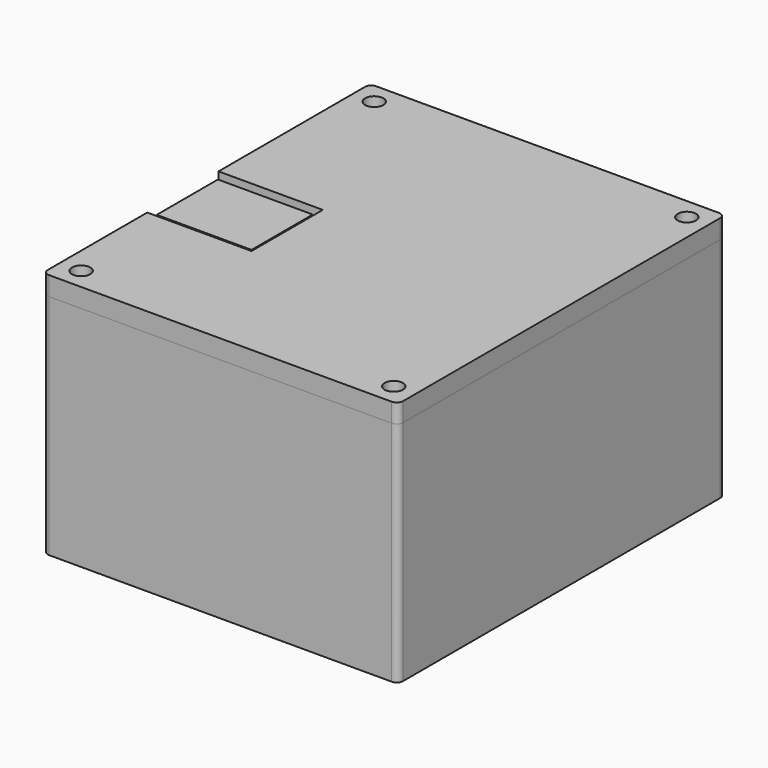
from build123d import *

# Parameters (mm, degrees)
SKETCH001_W     = 41.91
SKETCH001_H     = 35.406
SKETCH001_R     = 1.6
PAD_DEPTH       = 1.6
SKETCH002_W     = 25.5
SKETCH002_H     = 18
PAD001_DEPTH    = 0.8
SKETCH003_W     = 17.6
SKETCH003_H     = 15.8
PAD002_DEPTH    = 2.3
SKETCH004_W     = 10
SKETCH004_H     = 5.8
PAD003_DEPTH    = 3
SKETCH005_W     = 7.5
SKETCH005_H     = 1
PAD004_DEPTH    = 8
SKETCH006_W     = 7.5
SKETCH006_H     = 9.16
PAD005_DEPTH    = 3.16
SKETCH007_W     = 6.02
SKETCH007_H     = 7.84
PAD006_DEPTH    = 3
SKETCH008_W     = 1
SKETCH008_H     = 5
PAD007_DEPTH    = 8
SKETCH012_W     = 0.6
SKETCH012_H     = 0.6
PAD011_DEPTH    = 7
SKETCH009_W     = 40
SKETCH009_H     = 40
PAD008_DEPTH    = 8
SKETCH010_W     = 15
SKETCH010_H     = 12.1
PAD009_DEPTH    = 4.5
SKETCH011_W     = 0.44
SKETCH011_H     = 0.28
PAD010_DEPTH    = 7.7
SKETCH013_W     = 56.2
SKETCH013_H     = 64.703
PAD012_DEPTH    = 1
SKETCH014_W     = 56.2
SKETCH014_H     = 64.703
SKETCH014_R     = 1.45
PAD013_DEPTH    = 35
SKETCH015_W     = 9.56
SKETCH015_H     = 3.56
POCKET_DEPTH    = 2
SKETCH016_R     = 1.8
SKETCH016_R_2   = 1.4
PAD014_DEPTH    = 16
SKETCH017_W     = 15.3
SKETCH017_H     = 8.2
POCKET001_DEPTH = 2
FILLET003_R     = 1
SKETCH029_R     = 1.45
PAD025_DEPTH    = 1
FILLET_R        = 1
FILLET004_R     = 1
FILLET005_R     = 1
FILLET006_R     = 1
POCKET003_DEPTH = 5
PAD026_DEPTH    = 1
SKETCH031_R     = 1.45
PAD027_DEPTH    = 1
PAD028_DEPTH    = 4.7
SKETCH032_R     = 1.45
PAD029_DEPTH    = 1
SKETCH034_W     = 17.1
SKETCH034_H     = 15.3
PAD030_DEPTH    = 0.6
SKETCH035_W     = 9.06
SKETCH035_H     = 1.28
POCKET002_DEPTH = 2
FILLET007_R     = 1
FILLET008_R     = 1


with BuildPart() as pcb:
    # Sketch001 → Pad (new body)
    with BuildSketch(Plane.XY):
        Rectangle(SKETCH001_W, SKETCH001_H)
        with Locations((-16.718, 13.62)):
            Circle(SKETCH001_R, mode=Mode.SUBTRACT)
        with Locations((17.145, -13.893)):
            Circle(SKETCH001_R, mode=Mode.SUBTRACT)
    extrude(amount=PAD_DEPTH)

    # Sketch002 (on Face8 of Pad) → Pad001 (join)
    with BuildSketch(Plane.XY.offset(1.6)):
        with Locations((13.755, 0.607)):
            Rectangle(SKETCH002_W, SKETCH002_H)
    extrude(amount=PAD001_DEPTH)

    # Sketch003 (on Face14 of Pad001) → Pad002 (join)
    with BuildSketch(Plane.XY.offset(2.4)):
        with Locations((10.855, 0.507)):
            Rectangle(SKETCH003_W, SKETCH003_H)
    extrude(amount=PAD002_DEPTH)

    # Sketch004 (on Face5 of Pad002) → Pad003 (join)
    with BuildSketch(Plane.XY.offset(1.6)):
        with Locations((-5.955, 14.603)):
            Rectangle(SKETCH004_W, SKETCH004_H)
    extrude(amount=PAD003_DEPTH)

    # Sketch005 (on Face19 of Pad003) → Pad004 (join)
    with BuildSketch(Plane.XY.offset(4.6)):
        with Locations((-5.955, 12.203)):
            Rectangle(SKETCH005_W, SKETCH005_H)
    extrude(amount=PAD004_DEPTH)

    # Sketch006 (on Face5 of Pad004) → Pad005 (join)
    with BuildSketch(Plane.XY.offset(1.6)):
        with Locations((-18.45, 0.977)):
            Rectangle(SKETCH006_W, SKETCH006_H)
    extrude(amount=PAD005_DEPTH)

    # Sketch007 (on Face4 of Pad005) → Pad006 (join)
    with BuildSketch(Plane(origin=(0, 0, 0), x_dir=(1, 0, 0), z_dir=(0, 0, -1))):
        with Locations((-16.169, 9.816)):
            Rectangle(SKETCH007_W, SKETCH007_H)
    extrude(amount=PAD006_DEPTH)

    # Sketch008 (on Face27 of Pad006) → Pad007 (join)
    with BuildSketch(Plane(origin=(0, 0, -3), x_dir=(1, 0, 0), z_dir=(0, 0, -1))):
        with Locations((-13.659, 9.646)):
            Rectangle(SKETCH008_W, SKETCH008_H)
    extrude(amount=PAD007_DEPTH)

    # Sketch012 (on Face31 of Pad007) → Pad011 (join)
    with BuildSketch(Plane.XY.offset(4.6)):
        with Locations((-9.765, 14.003)):
            Rectangle(SKETCH012_W, SKETCH012_H)
        with Locations((-7.225, 14.003)):
            Rectangle(SKETCH012_W, SKETCH012_H)
        with Locations((-4.685, 14.003)):
            Rectangle(SKETCH012_W, SKETCH012_H)
        with Locations((-2.145, 14.003)):
            Rectangle(SKETCH012_W, SKETCH012_H)
    extrude(amount=PAD011_DEPTH)


with BuildPart() as battery:
    # Sketch009 → Pad008 (new body)
    with BuildSketch(Plane.XY):
        Rectangle(SKETCH009_W, SKETCH009_H)
    extrude(amount=-PAD008_DEPTH)


with BuildPart() as battery_1:
    # Body001 placement: moved
    add(battery.part.moved(Location((9, 10, -7))))


with BuildPart() as sensor:
    # Sketch010 → Pad009 (new body)
    with BuildSketch(Plane.XY):
        Rectangle(SKETCH010_W, SKETCH010_H)
    extrude(amount=PAD009_DEPTH)

    # Sketch011 (on Face2 of Pad009) → Pad010 (join)
    with BuildSketch(Plane.YZ.offset(7.5)):
        with Locations((-3.81, 1.35)):
            Rectangle(SKETCH011_W, SKETCH011_H)
        with Locations((-1.27, 1.35)):
            Rectangle(SKETCH011_W, SKETCH011_H)
        with Locations((1.27, 1.35)):
            Rectangle(SKETCH011_W, SKETCH011_H)
        with Locations((3.81, 1.35)):
            Rectangle(SKETCH011_W, SKETCH011_H)
    extrude(amount=PAD010_DEPTH)


with BuildPart() as sensor_1:
    # Body002 placement: moved
    add(sensor.part.moved(Location((-14, 0, 18))))


with BuildPart() as box:
    # Sketch013 → Pad012 (new body)
    with BuildSketch(Plane.XY):
        with Locations((5.9, 4.6485)):
            Rectangle(SKETCH013_W, SKETCH013_H)
    extrude(amount=PAD012_DEPTH)

    # Sketch014 (on Face6 of Pad012) → Pad013 (join)
    with BuildSketch(Plane.XY.offset(1)):
        with Locations((5.9, 4.6485)):
            Rectangle(SKETCH014_W, SKETCH014_H)
        with Locations((-18.832233, -24.335233)):
            Circle(SKETCH014_R, mode=Mode.SUBTRACT)
        with Locations((-18.832233, 33.632233)):
            Circle(SKETCH014_R, mode=Mode.SUBTRACT)
        with Locations((30.632233, -24.335233)):
            Circle(SKETCH014_R, mode=Mode.SUBTRACT)
        with Locations((30.632233, 33.632233)):
            Circle(SKETCH014_R, mode=Mode.SUBTRACT)
        with BuildLine():
            ThreePointArc((-15.6, -26.103), (-17.064466, -22.567466), (-20.6, -21.103))
            Line((-20.6, 30.4), (-20.6, -21.103))
            ThreePointArc((-20.6, 30.4), (-17.064466, 31.864466), (-15.6, 35.4))
            Line((-15.6, 35.4), (27.4, 35.4))
            ThreePointArc((27.4, 35.4), (28.864466, 31.864466), (32.4, 30.4))
            Line((32.4, 30.4), (32.4, -21.103))
            ThreePointArc((32.4, -21.103), (28.864466, -22.567466), (27.4, -26.103))
            Line((-15.6, -26.103), (27.4, -26.103))
        make_face(mode=Mode.SUBTRACT)
    extrude(amount=PAD013_DEPTH)

    # Sketch015 (on Face7 of Pad013) → Pocket (cut)
    with BuildSketch(Plane(origin=(-22.2, 0, 0), x_dir=(0, -1, 0), z_dir=(-1, 0, 0))):
        with Locations((-0.977, 19.18)):
            Rectangle(SKETCH015_W, SKETCH015_H)
    extrude(amount=-POCKET_DEPTH, mode=Mode.SUBTRACT)

    # Sketch016 → Pad014 (join)
    with BuildSketch(Plane.XY):
        with Locations((-16.718, 13.62)):
            Circle(SKETCH016_R)
        with Locations((-16.718, 13.62)):
            Circle(SKETCH016_R_2, mode=Mode.SUBTRACT)
        with Locations((17.145, -13.893)):
            Circle(SKETCH016_R)
        with Locations((17.145, -13.893)):
            Circle(SKETCH016_R_2, mode=Mode.SUBTRACT)
    extrude(amount=PAD014_DEPTH)

    # Sketch017 (on Face7 of Pad014) → Pocket001 (cut)
    with BuildSketch(Plane(origin=(-22.2, 0, 0), x_dir=(0, -1, 0), z_dir=(-1, 0, 0))):
        with Locations((0, 37.4)):
            Rectangle(SKETCH017_W, SKETCH017_H)
    extrude(amount=-POCKET001_DEPTH, mode=Mode.SUBTRACT)

    # Fillet003
    fillet003_edges = [box.edges().sort_by_distance(p)[0] for p in [
        (-22.2, 37, 18.5),
        (-22.2, 37, 0.5),
    ]]
    fillet(fillet003_edges, radius=FILLET003_R)

    # Sketch029 → Pad025 (join)
    with BuildSketch(Plane.XY.offset(36)):
        with BuildLine():
            Line((-15.6, 35.4), (27.4, 35.4))
            ThreePointArc((27.4, 35.4), (28.864466, 31.864466), (32.4, 30.4))
            Line((32.4, 30.4), (32.4, -21.103))
            ThreePointArc((32.4, -21.103), (28.864466, -22.567466), (27.4, -26.103))
            Line((27.4, -26.103), (-15.6, -26.103))
            ThreePointArc((-15.6, -26.103), (-17.064466, -22.567466), (-20.6, -21.103))
            Line((-20.6, -21.103), (-20.6, -7.65))
            Line((-20.6, -7.65), (-21.4, -7.65))
            Line((-21.4, -7.65), (-21.4, -26.903))
            Line((33.2, -26.903), (-21.4, -26.903))
            Line((33.2, 36.2), (33.2, -26.903))
            Line((-21.4, 36.2), (33.2, 36.2))
            Line((-21.4, 7.65), (-21.4, 36.2))
            Line((-20.6, 7.65), (-21.4, 7.65))
            Line((-20.6, 30.4), (-20.6, 7.65))
            ThreePointArc((-20.6, 30.4), (-17.064466, 31.864466), (-15.6, 35.4))
        make_face()
        with Locations((-18.832233, 33.632233)):
            Circle(SKETCH029_R, mode=Mode.SUBTRACT)
        with Locations((30.632233, 33.632233)):
            Circle(SKETCH029_R, mode=Mode.SUBTRACT)
        with Locations((30.632233, -24.335233)):
            Circle(SKETCH029_R, mode=Mode.SUBTRACT)
        with Locations((-18.832233, -24.335233)):
            Circle(SKETCH029_R, mode=Mode.SUBTRACT)
    extrude(amount=PAD025_DEPTH)

    # Fillet
    fillet_edges = [box.edges().sort_by_distance(p)[0] for p in [
        (-22.2, -27.703, 18.5),
        (34, -27.703, 18.5),
        (34, 37, 18.5),
    ]]
    fillet(fillet_edges, radius=FILLET_R)

    # Fillet004
    fillet004_edges = [box.edges().sort_by_distance(p)[0] for p in [
        (27.4, 35.4, 18.5),
        (32.4, 30.4, 18.5),
        (27.4, 35.4, 36.5),
        (32.4, 30.4, 36.5),
    ]]
    fillet(fillet004_edges, radius=FILLET004_R)

    # Fillet005
    fillet005_edges = [box.edges().sort_by_distance(p)[0] for p in [
        (-15.6, 35.4, 18.5),
        (-20.6, 30.4, 18.5),
        (-20.6, 30.4, 36.5),
        (-15.6, 35.4, 36.5),
    ]]
    fillet(fillet005_edges, radius=FILLET005_R)

    # Fillet006
    fillet006_edges = [box.edges().sort_by_distance(p)[0] for p in [
        (-20.6, -21.103, 18.5),
        (-20.6, -21.103, 36.5),
        (-15.6, -26.103, 36.5),
        (-15.6, -26.103, 18.5),
        (32.4, -21.103, 36.5),
        (27.4, -26.103, 36.5),
        (27.4, -26.103, 18.5),
        (32.4, -21.103, 18.5),
    ]]
    fillet(fillet006_edges, radius=FILLET006_R)

    # Sketch036 (on Face53 of Fillet006) → Pocket003 (cut)
    with BuildSketch(Plane.XY.offset(1)):
        with BuildLine():
            ThreePointArc((-18.000545, 6.3985), (-19.750545, 4.6485), (-18.000545, 2.8985))
            ThreePointArc((-18.000545, 2.8985), (-10.93392, 4.6485), (-18.000545, 6.3985))
        make_face()
    extrude(amount=-POCKET003_DEPTH, mode=Mode.SUBTRACT)


with BuildPart() as box_1:
    # Body003 placement: moved
    add(box.part.moved(Location((0, 0, -16))))


with BuildPart() as lid:
    # Sketch030 → Pad026 (new body)
    with BuildSketch(Plane.XY):
        Polygon((34, 37), (34, -27.703), (-22.2, -27.703), (-22.2, -7.65), (-21.4, -7.65), (-21.4, -26.903), (33.2, -26.903), (33.2, 36.2), (-21.4, 36.2), (-21.4, 7.65), (-22.2, 7.65), (-22.2, 37), align=None)
    extrude(amount=PAD026_DEPTH)

    # Sketch031 (on Face14 of Pad026) → Pad027 (join)
    with BuildSketch(Plane.XY.offset(1)):
        with BuildLine():
            Line((-22.2, 7.65), (-22.2, 37))
            Line((-22.2, 37), (34, 37))
            Line((34, 37), (34, -27.703))
            Line((34, -27.703), (-22.2, -27.703))
            Line((-22.2, -27.703), (-22.2, -7.65))
            Line((-22.2, -7.65), (-20.6, -7.65))
            Line((-20.6, -7.65), (-20.6, -21.103))
            ThreePointArc((-15.6, -26.103), (-17.064466, -22.567466), (-20.6, -21.103))
            Line((-15.6, -26.103), (27.4, -26.103))
            ThreePointArc((32.4, -21.103), (28.864466, -22.567466), (27.4, -26.103))
            Line((32.4, -21.103), (32.4, 30.4))
            ThreePointArc((27.4, 35.4), (28.864466, 31.864466), (32.4, 30.4))
            Line((27.4, 35.4), (-15.6, 35.4))
            ThreePointArc((-20.6, 30.4), (-17.064466, 31.864466), (-15.6, 35.4))
            Line((-20.6, 30.4), (-20.6, 7.65))
            Line((-22.2, 7.65), (-20.6, 7.65))
        make_face()
        with Locations((-18.832233, 33.632233)):
            Circle(SKETCH031_R, mode=Mode.SUBTRACT)
        with Locations((30.632233, 33.632233)):
            Circle(SKETCH031_R, mode=Mode.SUBTRACT)
        with Locations((-18.832233, -24.335233)):
            Circle(SKETCH031_R, mode=Mode.SUBTRACT)
        with Locations((30.632233, -24.335233)):
            Circle(SKETCH031_R, mode=Mode.SUBTRACT)
    extrude(amount=PAD027_DEPTH)

    # Sketch033 (on Face17 of Pad027) → Pad028 (join)
    with BuildSketch(Plane.XY.offset(2)):
        Polygon((-22.2, 7.05), (-5.7, 7.05), (-5.7, -7.05), (-22.2, -7.05), (-22.2, -7.65), (-5.1, -7.65), (-5.1, 7.65), (-22.2, 7.65), align=None)
    extrude(amount=-PAD028_DEPTH)

    # Sketch032 (on Face17 of Pad027) → Pad029 (join)
    with BuildSketch(Plane.XY.offset(2)):
        Polygon((-22.2, -27.703), (34, -27.703), (34, 37), (-22.2, 37), (-22.2, 7.05), (-5.7, 7.05), (-5.7, -7.05), (-22.2, -7.05), align=None)
        with Locations((-18.832233, 33.632233)):
            Circle(SKETCH032_R, mode=Mode.SUBTRACT)
        with Locations((30.632233, 33.632233)):
            Circle(SKETCH032_R, mode=Mode.SUBTRACT)
        with Locations((30.632233, -24.335233)):
            Circle(SKETCH032_R, mode=Mode.SUBTRACT)
        with Locations((-18.832233, -24.335233)):
            Circle(SKETCH032_R, mode=Mode.SUBTRACT)
    extrude(amount=PAD029_DEPTH)

    # Sketch034 (on Face11 of Pad029) → Pad030 (join)
    with BuildSketch(Plane(origin=(0, 0, -2.7), x_dir=(1, 0, 0), z_dir=(0, 0, -1))):
        with Locations((-13.65, 0)):
            Rectangle(SKETCH034_W, SKETCH034_H)
    extrude(amount=PAD030_DEPTH)

    # Sketch035 (on Face26 of Pad030) → Pocket002 (cut)
    with BuildSketch(Plane.YZ.offset(-5.1)):
        with Locations((0, -0.65)):
            Rectangle(SKETCH035_W, SKETCH035_H)
    extrude(amount=-POCKET002_DEPTH, mode=Mode.SUBTRACT)

    # Fillet007
    fillet007_edges = [lid.edges().sort_by_distance(p)[0] for p in [
        (32.4, 30.4, 1.5),
        (27.4, 35.4, 1.5),
        (-15.6, 35.4, 1.5),
        (-20.6, 30.4, 1.5),
        (-20.6, -21.103, 1.5),
        (-15.6, -26.103, 1.5),
        (27.4, -26.103, 1.5),
        (32.4, -21.103, 1.5),
    ]]
    fillet(fillet007_edges, radius=FILLET007_R)

    # Fillet008
    fillet008_edges = [lid.edges().sort_by_distance(p)[0] for p in [
        (34, 37, 0.5),
        (34, 37, 1.5),
        (34, 37, 2.5),
        (-22.2, 37, 0.5),
        (-22.2, 37, 1.5),
        (-22.2, 37, 2.5),
        (-22.2, -27.703, 0.5),
        (-22.2, -27.703, 1.5),
        (-22.2, -27.703, 2.5),
        (34, -27.703, 0.5),
        (34, -27.703, 1.5),
        (34, -27.703, 2.5),
    ]]
    fillet(fillet008_edges, radius=FILLET008_R)


with BuildPart() as lid_1:
    # Body004 placement: moved
    add(lid.part.moved(Location((0, 0, 20))))


solid = Compound([pcb.part, battery_1.part, sensor_1.part, box_1.part, lid_1.part])
